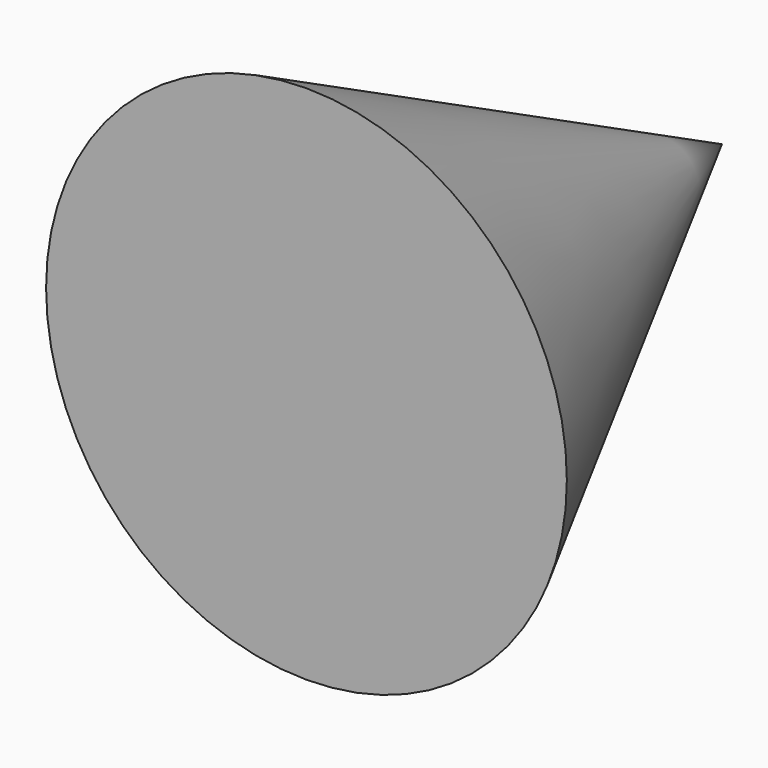
from build123d import *


with BuildPart() as f1:
    # F0 (on Top) → F1 (revolve)
    with BuildSketch(Plane.XY):
        Polygon((0, 50.630212), (0, 0), (25.386415, 0), align=None)
    revolve(axis=Axis((0, 25.315106, 0), (0, 1, 0)))


solid = f1.part
